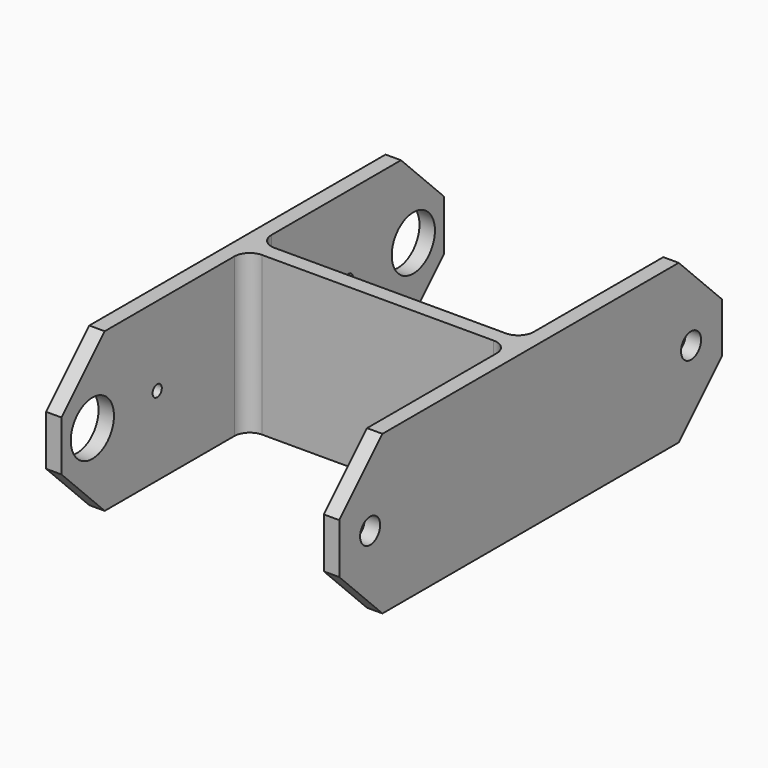
from build123d import *

# Parameters (mm, degrees)
F1_DEPTH = 20.5
F2_SIZE  = 7
F3_R     = 3.5
F3_R_2   = 0.75
F4_DEPTH = 25
F5_R     = 1.625
F6_DEPTH = 25
F9_R     = 2


with BuildPart() as f1:
    # F0 (on Top) → F1 (new body)
    with BuildSketch(Plane.XY):
        Polygon((-2, 0), (0, 0), (0, 30), (34, 30), (34, 0), (36, 0), (36, 32), (-2, 32), align=None)
    extrude(amount=F1_DEPTH)

    # F2
    f2_edges = [f1.edges().sort_by_distance(p)[0] for p in [
        (-1, 0, 0),
        (-1, 0, 20.5),
        (35, 0, 0),
        (35, 0, 20.5),
    ]]
    chamfer(f2_edges, length=F2_SIZE)

    # F3 (on face) → F4 (cut)
    with BuildSketch(Plane(origin=(-2, 0, 0), x_dir=(0, -1, 0), z_dir=(-1, 0, 0))):
        with Locations((-5, 10.25)):
            Circle(F3_R)
        with Locations((-15.5, 10.25)):
            Circle(F3_R_2)
    extrude(amount=-F4_DEPTH, mode=Mode.SUBTRACT)

    # F5 (on face) → F6 (cut)
    with BuildSketch(Plane.YZ.offset(36)):
        with Locations((5, 10.25)):
            Circle(F5_R)
    extrude(amount=-F6_DEPTH, mode=Mode.SUBTRACT)

    # F8: F1 across plane


with BuildPart() as f1_1:
    add(f1.part)
    add(f1.part.mirror(Plane(origin=(17, 31, 10.25), x_dir=(-1, 0, 0), z_dir=(0, 1, 0))))

    # F9
    f9_edges = [f1_1.edges().sort_by_distance(p)[0] for p in [
        (0, 30, 10.25),
        (0, 32, 10.25),
        (34, 32, 10.25),
        (34, 30, 10.25),
    ]]
    fillet(f9_edges, radius=F9_R)


solid = f1_1.part
